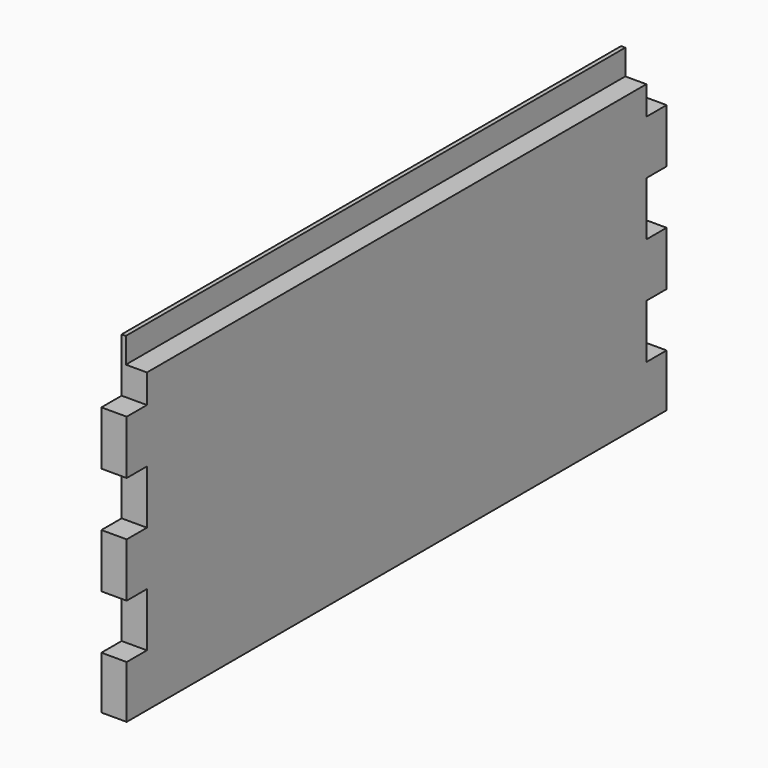
from build123d import *

# Parameters (mm, degrees)
F1_DEPTH = 19.05
F2_W     = 469.9
F2_H     = 19.05
F3_DEPTH = 15.875


with BuildPart() as f1:
    # F0 (on Right) → F1 (new body)
    with BuildSketch(Plane.YZ):
        Polygon((-599.02876, -133.371351), (-618.07876, -133.371351), (-618.07876, -174.011351), (-599.02876, -174.011351), (-599.02876, -214.651351), (-618.07876, -214.651351), (-618.07876, -255.291351), (-599.02876, -255.291351), (-599.02876, -295.931351), (-618.07876, -295.931351), (-618.07876, -335.618851), (-599.02876, -335.618851), (-129.12876, -335.618851), (-110.07876, -335.618851), (-110.07876, -295.931351), (-129.12876, -295.931351), (-129.12876, -255.291351), (-110.07876, -255.291351), (-110.07876, -214.651351), (-129.12876, -214.651351), (-129.12876, -174.011351), (-110.07876, -174.011351), (-110.07876, -133.371351), (-129.12876, -133.371351), (-129.12876, -92.731351), (-599.02876, -92.731351), align=None)
    extrude(amount=F1_DEPTH)

    # F2 (on face) → F3 (cut)
    with BuildSketch(Plane.YZ.offset(19.05)):
        with Locations((-364.07876, -102.256351)):
            Rectangle(F2_W, F2_H)
    extrude(amount=-F3_DEPTH, mode=Mode.SUBTRACT)


solid = f1.part
